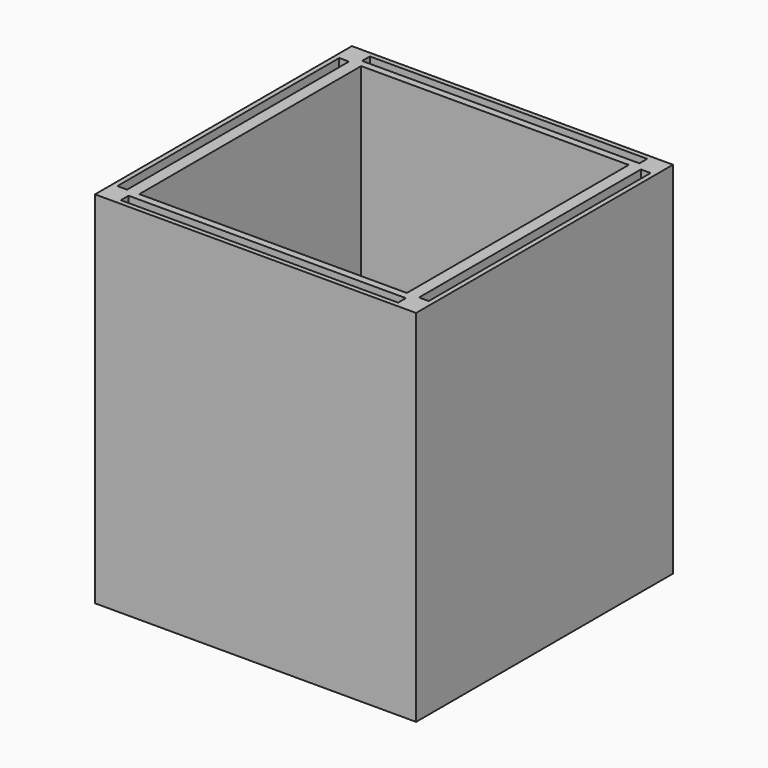
from build123d import *

# Parameters (mm, degrees)
F0_W     = 66
F0_H     = 66
F0_W_2   = 57
F0_H_2   = 2
F0_W_3   = 2
F0_H_3   = 57
F0_W_4   = 55
F1_DEPTH = 74


with BuildPart() as f1:
    # F0 (on Top) → F1 (new body)
    with BuildSketch(Plane.XY):
        Rectangle(F0_W, F0_H)
        with Locations((0, -31)):
            Rectangle(F0_W_2, F0_H_2, mode=Mode.SUBTRACT)
        with Locations((-31, 0)):
            Rectangle(F0_W_3, F0_H_3, mode=Mode.SUBTRACT)
        Rectangle(F0_W_4, F0_H_3, mode=Mode.SUBTRACT)
        with Locations((31, 0)):
            Rectangle(F0_W_3, F0_H_3, mode=Mode.SUBTRACT)
        with Locations((0, 31)):
            Rectangle(F0_W_2, F0_H_2, mode=Mode.SUBTRACT)
    extrude(amount=F1_DEPTH)


solid = f1.part
